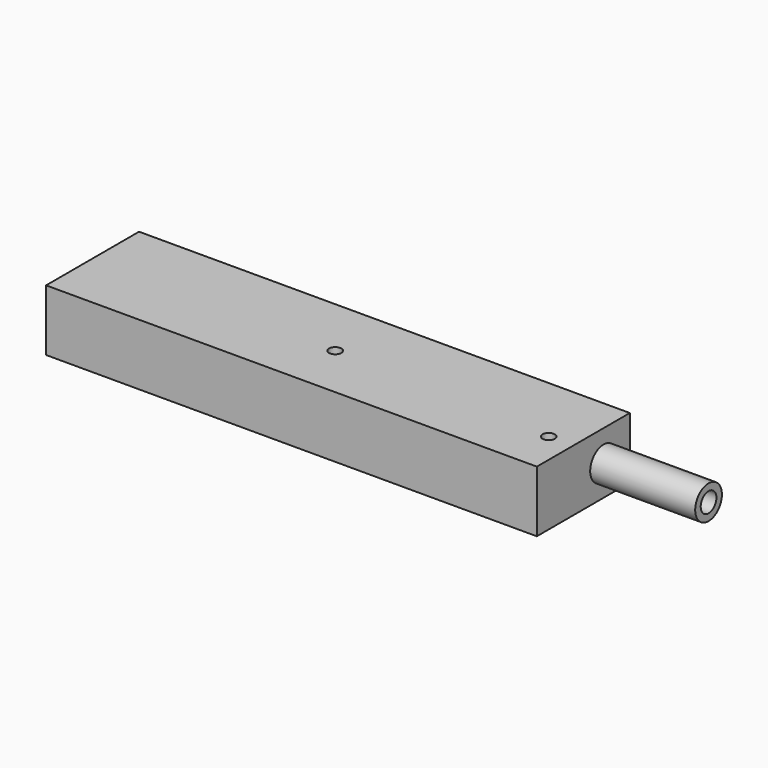
from build123d import *

# Parameters (mm, degrees)
F0_W     = 200
F0_H     = 47.349059
F0_R     = 2.5
F1_DEPTH = 25
F2_R     = 6.804823
F3_DEPTH = 42.8
F4_R     = 4
F5_DEPTH = 42.8


with BuildPart() as f1:
    # F0 (on Top) → F1 (new body)
    with BuildSketch(Plane.XY):
        with Locations((78.801886, -10.301887)):
            Rectangle(F0_W, F0_H)
        with Locations((78.801886, -11.689553)):
            Circle(F0_R, mode=Mode.SUBTRACT)
        with Locations((168.801886, -15.438692)):
            Circle(F0_R, mode=Mode.SUBTRACT)
    extrude(amount=F1_DEPTH)

    # F2 (on face) → F3 (join)
    with BuildSketch(Plane.YZ.offset(178.801886)):
        with Locations((0, 12.338707)):
            Circle(F2_R)
    extrude(amount=F3_DEPTH)

    # F4 (on face) → F5 (cut, through all)
    with BuildSketch(Plane.YZ.offset(221.601886)):
        with Locations((0, 12.338707)):
            Circle(F4_R)
    extrude(amount=-F5_DEPTH, mode=Mode.SUBTRACT)


solid = f1.part
